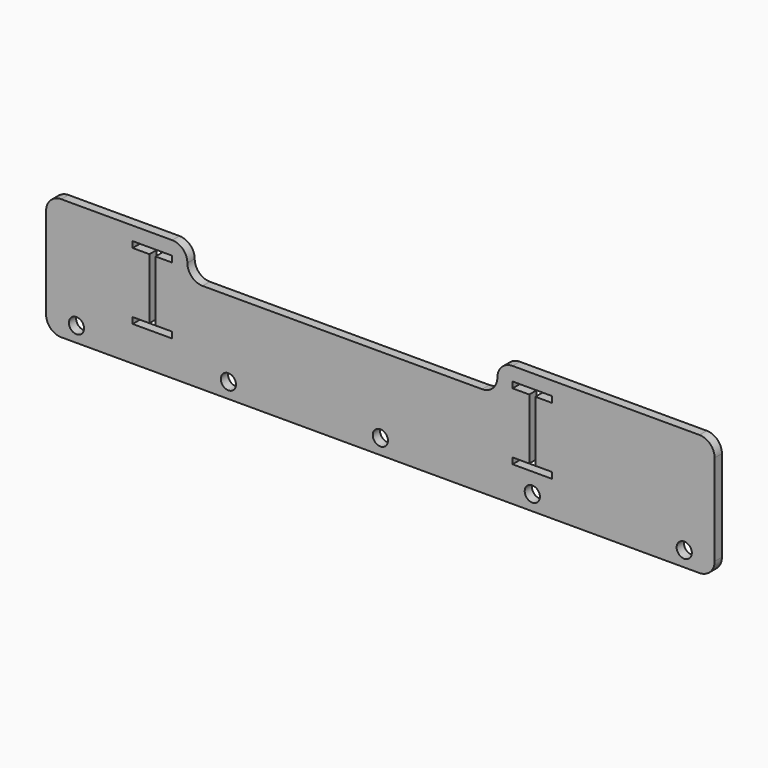
from build123d import *

# Parameters (mm, degrees)
F0_R     = 2.5
F1_DEPTH = 3


with BuildPart() as f1:
    # F0 (on Front) → F1 (new body)
    with BuildSketch(Plane.XZ):
        with BuildLine():
            Line((-68.5, 20), (-105, 20))
            ThreePointArc((-105, 20), (-108.535534, 18.535534), (-110, 15))
            Line((-110, 15), (-110, -15))
            ThreePointArc((-110, -15), (-108.535534, -18.535534), (-105, -20))
            Line((-105, -20), (105, -20))
            ThreePointArc((105, -20), (108.535534, -18.535534), (110, -15))
            Line((110, -15), (110, 15))
            ThreePointArc((110, 15), (108.535534, 18.535534), (105, 20))
            Line((105, 20), (43.5, 20))
            ThreePointArc((43.5, 20), (39.964466, 18.535534), (38.5, 15))
            ThreePointArc((38.5, 15), (37.035534, 11.464466), (33.5, 10))
            Line((33.5, 10), (-58.5, 10))
            ThreePointArc((-58.5, 10), (-62.035534, 11.464466), (-63.5, 15))
            ThreePointArc((-63.5, 15), (-64.964466, 18.535534), (-68.5, 20))
        make_face()
        with Locations((-100, -15)):
            Circle(F0_R, mode=Mode.SUBTRACT)
        with Locations((-50, -15)):
            Circle(F0_R, mode=Mode.SUBTRACT)
        with Locations((0, -15)):
            Circle(F0_R, mode=Mode.SUBTRACT)
        with Locations((50, -15)):
            Circle(F0_R, mode=Mode.SUBTRACT)
        with Locations((100, -15)):
            Circle(F0_R, mode=Mode.SUBTRACT)
        Polygon((-81.5, 13.5), (-81.5, 15.5), (-68.5, 15.5), (-68.5, 13.5), (-74, 13.5), (-74, -6.5), (-68.5, -6.5), (-68.5, -8.5), (-81.5, -8.5), (-81.5, -6.5), (-76, -6.5), (-76, 13.5), align=None, mode=Mode.SUBTRACT)
        Polygon((43.5, -6.5), (49, -6.5), (49, 13.5), (43.5, 13.5), (43.5, 15.5), (56.5, 15.5), (56.5, 13.5), (51, 13.5), (51, -6.5), (56.5, -6.5), (56.5, -8.5), (43.5, -8.5), align=None, mode=Mode.SUBTRACT)
    extrude(amount=F1_DEPTH)


solid = f1.part
